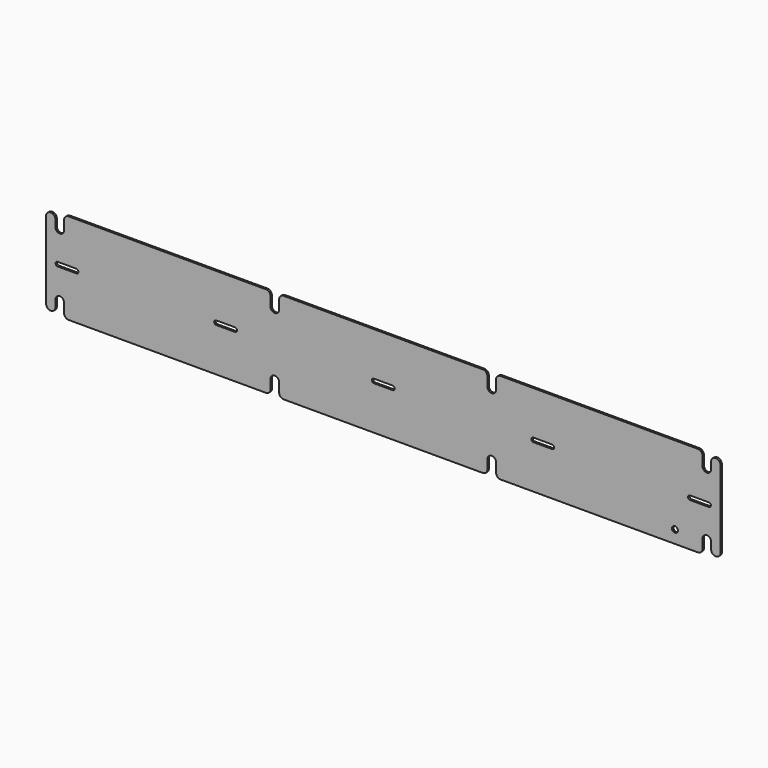
from build123d import *

# Parameters (mm, degrees)
F1_DEPTH = 1
F3_DEPTH = 25
F4_R     = 3.25
F5_DEPTH = 25


with BuildPart() as f1:
    # F0 (on Front) → F1 (new body, symmetric)
    with BuildSketch(Plane.XZ):
        with BuildLine():
            Line((-370, 42.5), (-370, -42.5))
            ThreePointArc((-370, -42.5), (-364.875, -47.501144), (-359.75, -42.5))
            Line((-359.75, -42.5), (-359.75, -35))
            ThreePointArc((-359.75, -35), (-355, -30.25), (-350.25, -35))
            Line((-350.25, -35), (-350.25, -45))
            ThreePointArc((-350.25, -45), (-348.785534, -48.535534), (-345.25, -50))
            Line((-345.25, -50), (-128.75, -50))
            ThreePointArc((-128.75, -50), (-125.214466, -48.535534), (-123.75, -45))
            Line((-123.75, -45), (-123.75, -35))
            ThreePointArc((-123.75, -35), (-119, -30.25), (-114.25, -35))
            Line((-114.25, -35), (-114.25, -45))
            ThreePointArc((-114.25, -45), (-112.785534, -48.535534), (-109.25, -50))
            Line((-109.25, -50), (109.25, -50))
            ThreePointArc((109.25, -50), (112.785534, -48.535534), (114.25, -45))
            Line((114.25, -45), (114.25, -35))
            ThreePointArc((114.25, -35), (119, -30.25), (123.75, -35))
            Line((123.75, -35), (123.75, -45))
            ThreePointArc((123.75, -45), (125.214466, -48.535534), (128.75, -50))
            Line((128.75, -50), (345.25, -50))
            ThreePointArc((345.25, -50), (348.785534, -48.535534), (350.25, -45))
            Line((350.25, -45), (350.25, -35))
            ThreePointArc((350.25, -35), (355, -30.25), (359.75, -35))
            Line((359.75, -35), (359.75, -42.5))
            ThreePointArc((359.75, -42.5), (364.875, -47.501144), (370, -42.5))
            Line((370, -42.5), (370, 42.5))
            ThreePointArc((370, 42.5), (364.875, 47.501144), (359.75, 42.5))
            Line((359.75, 42.5), (359.75, 35))
            ThreePointArc((359.75, 35), (355, 30.25), (350.25, 35))
            Line((350.25, 35), (350.25, 45))
            ThreePointArc((350.25, 45), (348.785534, 48.535534), (345.25, 50))
            Line((345.25, 50), (128.75, 50))
            ThreePointArc((128.75, 50), (125.214466, 48.535534), (123.75, 45))
            Line((123.75, 45), (123.75, 35))
            ThreePointArc((123.75, 35), (119, 30.25), (114.25, 35))
            Line((114.25, 35), (114.25, 45))
            ThreePointArc((114.25, 45), (112.785534, 48.535534), (109.25, 50))
            Line((109.25, 50), (-109.25, 50))
            ThreePointArc((-109.25, 50), (-112.785534, 48.535534), (-114.25, 45))
            Line((-114.25, 45), (-114.25, 35))
            ThreePointArc((-114.25, 35), (-119, 30.25), (-123.75, 35))
            Line((-123.75, 35), (-123.75, 45))
            ThreePointArc((-123.75, 45), (-125.214466, 48.535534), (-128.75, 50))
            Line((-128.75, 50), (-345.25, 50))
            ThreePointArc((-345.25, 50), (-348.785534, 48.535534), (-350.25, 45))
            Line((-350.25, 45), (-350.25, 35))
            ThreePointArc((-350.25, 35), (-355, 30.25), (-359.75, 35))
            Line((-359.75, 35), (-359.75, 42.5))
            ThreePointArc((-359.75, 42.5), (-364.875, 47.501144), (-370, 42.5))
        make_face()
    extrude(amount=F1_DEPTH, both=True)

    # F2 (on face) → F3 (cut)
    with BuildSketch(Plane.XZ.offset(1)):
        with BuildLine():
            Line((-357.25, -2.25), (-336.75, -2.25))
            ThreePointArc((-336.75, -2.25), (-334.5, 0), (-336.75, 2.25))
            Line((-336.75, 2.25), (-357.25, 2.25))
            ThreePointArc((-357.25, 2.25), (-359.5, 0), (-357.25, -2.25))
        make_face()
        with BuildLine():
            Line((-183.25, -2.25), (-162.75, -2.25))
            ThreePointArc((-162.75, -2.25), (-160.5, 0), (-162.75, 2.25))
            Line((-162.75, 2.25), (-183.25, 2.25))
            ThreePointArc((-183.25, 2.25), (-185.5, 0), (-183.25, -2.25))
        make_face()
        with BuildLine():
            Line((-10.25, -2.25), (10.25, -2.25))
            ThreePointArc((10.25, -2.25), (12.5, 0), (10.25, 2.25))
            Line((10.25, 2.25), (-10.25, 2.25))
            ThreePointArc((-10.25, 2.25), (-12.5, 0), (-10.25, -2.25))
        make_face()
        with BuildLine():
            Line((164.75, -2.25), (185.25, -2.25))
            ThreePointArc((185.25, -2.25), (187.5, 0), (185.25, 2.25))
            Line((185.25, 2.25), (164.75, 2.25))
            ThreePointArc((164.75, 2.25), (162.5, 0), (164.75, -2.25))
        make_face()
        with BuildLine():
            Line((336.75, -2.25), (357.25, -2.25))
            ThreePointArc((357.25, -2.25), (359.5, 0), (357.25, 2.25))
            Line((357.25, 2.25), (336.75, 2.25))
            ThreePointArc((336.75, 2.25), (334.5, 0), (336.75, -2.25))
        make_face()
    extrude(amount=-F3_DEPTH, mode=Mode.SUBTRACT)

    # F4 (on face) → F5 (cut)
    with BuildSketch(Plane.XZ.offset(1)):
        with Locations((320, -36)):
            Circle(F4_R)
    extrude(amount=-F5_DEPTH, mode=Mode.SUBTRACT)


solid = f1.part
